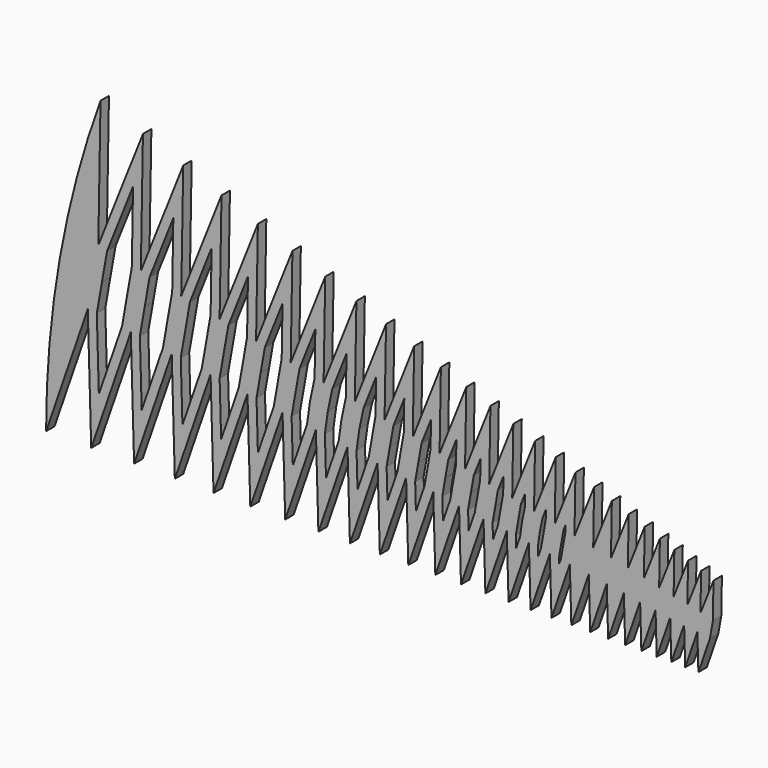
from build123d import *

# Parameters (mm, degrees)
F1_DEPTH = 2.9718


with BuildPart() as f1:
    # F0 (on Front) → F1 (new body)
    with BuildSketch(Plane.XZ):
        Polygon((88.5595228528, 0), (91.8131430541, 9.4448122858), (92.6356837919, 14.1096726181), (92.8085969496, 24.0976966753), (89.1419579691, 14.8522869664), (89.3239718193, 25.3659965003), (85.4643518398, 15.6339862804), (85.6559453663, 26.7010489477), (81.5931874931, 16.4568276636), (81.7948648895, 28.1063673133), (77.5182776546, 17.322976488), (77.7305696508, 29.5856498035), (73.2288988771, 18.2347120926), (73.4523641363, 31.1427892669), (68.7137633219, 19.1944337817), (68.9489899105, 32.7818834388), (63.9609890533, 20.2046671386), (64.2085959887, 34.507245725), (58.9580687706, 21.2680706723), (59.2187076499, 36.3234165527), (53.691836894, 22.3874428129), (53.0392851223, 18.6866378139), (52.3867333506, 14.9858328148), (52.8139092801, 0), (57.7182204044, 14.2365411741), (58.1240375374, 0), (62.7831331054, 13.5247141154), (63.1686593818, 0), (67.5948001715, 12.8484784096), (67.961050134, 0), (72.1658838842, 12.2060544891), (72.5138213486, 0), (76.5084134113, 11.5957517647), (76.8389540025, 0), (80.633816462, 11.0159641764), (80.9478300236, 0), (84.5529493602, 10.4651659676), (84.8512622437, 0), (88.2761256135, 9.9419076692), align=None)
        Polygon((47.2243005882, 0), (52.3867333506, 14.9858328148), (53.0392851223, 18.6866378139), (53.691836894, 22.3874428129), (53.966193609, 38.2351753186), (48.1484349186, 23.5657292767), (47.4615383168, 19.6701450672), (46.7746417151, 15.7745608577), align=None)
        Polygon((50.6049171986, 22.8698555445), (51.18513568, 24.3328732044), (51.1556807993, 22.6314638886), (50.5378734296, 19.1277041851), (49.92006606, 15.6239444817), (49.365828336, 14.0150685402), (49.3209828204, 15.5883018474), (49.9629500095, 19.2290786959), align=None, mode=Mode.SUBTRACT)
        Polygon((41.3405019652, 0), (46.7746417151, 15.7745608577), (47.4615383168, 19.6701450672), (48.1484349186, 23.5657292767), (48.4372314608, 40.247552967), (42.3132749445, 24.8060308176), (41.4470292604, 20.7306652896), (40.8671768356, 16.6048009028), align=None)
        Polygon((44.7532722233, 24.0685902468), (45.6561735318, 26.3452508527), (45.6122788239, 23.8097503524), (44.9601266242, 20.1112114385), (44.3079744245, 16.4126725246), (43.482029713, 14.0150685402), (43.4122438029, 16.4632401465), (43.9499656742, 20.2893300688), align=None, mode=Mode.SUBTRACT)
        Polygon((35.1470297304, 0), (40.8671768356, 16.6048009028), (41.4470292604, 20.7306652896), (42.3132749445, 24.8060308176), (42.6172713047, 42.3658452284), (36.1710012876, 26.111611387), (35.4098970198, 21.7951745897), (34.6487927519, 17.4787377925), align=None)
        Polygon((38.6274835677, 25.4157376547), (39.8362133757, 28.4635431141), (39.7778921048, 25.0947176066), (38.9440928465, 21.1720005104), (38.3859595933, 17.2006760597), (37.2885574782, 14.0150685402), (37.1951338571, 17.2924787822), (37.9113087124, 21.3541082184), align=None, mode=Mode.SUBTRACT)
        Polygon((28.6275852728, 0), (34.6487927519, 17.4787377925), (35.4098970198, 21.7951745897), (36.1710012876, 26.111611387), (36.4909974563, 44.5956265562), (29.7054500698, 27.4859067231), (28.9042876826, 22.9422890418), (28.1031252954, 18.3986713605), align=None)
        Polygon((32.1619323499, 26.7900329909), (33.7099395272, 30.6933244419), (33.6348451929, 26.3556324626), (32.9084853271, 22.236240961), (32.1821254613, 18.1168494594), (30.7691130206, 14.0150685402), (30.6494664006, 18.2124123502), (31.4056993752, 22.5012226705), align=None, mode=Mode.SUBTRACT)
        Polygon((21.7650121595, 0), (28.1031252954, 18.3986713605), (28.9042876826, 22.9422890418), (29.7054500698, 27.4859067231), (30.0422881421, 46.942764796), (22.8996066827, 28.9325333928), (22.056277854, 24.1497779387), (21.2129490253, 19.3670224847), align=None)
        Polygon((25.3560889627, 28.2366596605), (27.261230213, 33.0404626817), (27.1692939751, 27.7299277988), (26.4028759899, 23.3833554131), (25.6364580047, 19.0367830274), (23.9065399073, 14.0150685402), (23.7592901306, 19.1807634744), (24.5576895467, 23.7087115675), align=None, mode=Mode.SUBTRACT)
        Polygon((14.5412509876, 0), (21.2129490253, 19.3670224847), (22.056277854, 24.1497779387), (22.8996066827, 28.9325333928), (23.2541730745, 49.4134366273), (15.735561012, 30.4552983082), (14.8478464555, 25.4208188829), (13.960131899, 20.3863394576), align=None)
        Polygon((18.192043292, 29.7594245759), (20.4731151455, 35.5111345131), (20.363450588, 29.1765544684), (19.5548661614, 24.59084431), (18.7462817347, 20.0051341516), (16.6827787354, 14.0150685402), (16.5064730043, 20.2000804473), (17.3492581481, 24.9797525116), align=None, mode=Mode.SUBTRACT)
        Polygon((6.9372918592, 0), (13.960131899, 20.3863394576), (14.8478464555, 25.4208188829), (15.735561012, 30.4552983082), (16.1087887929, 52.0141438183), (8.194460306, 32.0582087455), (7.2600239307, 26.7587567188), (6.3255875555, 21.4593046922), align=None)
        Polygon((10.650942586, 31.3623350132), (13.3277308638, 38.111841704), (13.1994049173, 30.6993193838), (12.3464347628, 25.8618852542), (11.4934646084, 21.0244511245), (9.078819607, 14.0150685402), (8.8719286607, 21.2730456819), (9.7614356234, 26.3176903476), align=None, mode=Mode.SUBTRACT)
        Polygon((-1.0668756443, 0), (6.3255875555, 21.4593046922), (7.2600239307, 26.7587567188), (8.194460306, 32.0582087455), (8.5873316543, 54.751730335), (0.2564595629, 33.7454828899), (-0.7271576743, 28.1671123356), (-1.7107749114, 22.5887417813), align=None)
        Polygon((2.7129418429, 33.0496091577), (5.8062737253, 40.8494282208), (5.6583042113, 32.3022298211), (4.7586122381, 27.1998230901), (3.8589202649, 22.0974163591), (1.0746521035, 14.0150685402), (0.8355661939, 22.402482771), (1.7742540184, 27.7260459643), align=None, mode=Mode.SUBTRACT)
        Polygon((-9.4923151216, 0), (-1.7107749114, 22.5887417813), (-0.7271576743, 28.1671123356), (0.2564595629, 33.7454828899), (0.6700083505, 57.6334003526), (-8.0993306931, 35.5215609368), (-9.3397709346, 29.6857484278), (-10.1701038239, 23.7776229276), align=None)
        Polygon((-6.8368345207, 29.244413207), (-5.6593334143, 34.784120366), (-2.1110495785, 43.7310982384), (-2.2796965318, 33.9895039656), (-3.2285693669, 28.6081787069), (-4.177442202, 23.2268534482), (-7.3507873738, 14.0150685402), (-7.6250368565, 23.6360621713), align=None, mode=Mode.SUBTRACT)
        Polygon((-18.361198782, 0), (-10.1701038239, 23.7776229276), (-9.3397709346, 29.6857484278), (-8.0993306931, 35.5215609368), (-7.6640161798, 60.6667372133), (-16.8948993836, 37.3911167756), (-18.2006259535, 31.2481562398), (-19.0746605739, 25.0290767659), align=None)
        Polygon((-14.4549021048, 36.6536762048), (-10.4450741088, 46.7644350991), (-10.6347135328, 35.8102477258), (-11.8427073484, 30.1270836486), (-12.6513210661, 24.3734980845), (-16.2196710342, 14.0150685402), (-16.5295936065, 24.8875160096), (-15.6976895396, 30.806821019), align=None, mode=Mode.SUBTRACT)
        Polygon((-27.696865793, 0), (-19.0746605739, 25.0290767659), (-18.2006259535, 31.2481562398), (-16.8948993836, 37.3911167756), (-16.4366735801, 63.8597233824), (-26.1533927419, 39.3590702901), (-27.3006354737, 32.8527334429), (-28.4478782054, 26.3463965957), align=None)
        Polygon((-23.6969104619, 38.6631965578), (-19.2177315091, 49.9574212682), (-19.4302822233, 37.6798035645), (-20.7035623674, 31.6894914606), (-21.5558778161, 25.6249519228), (-25.5553380452, 14.0150685402), (-25.9015371001, 26.1601375854), (-24.799223781, 32.4116670716), align=None, mode=Mode.SUBTRACT)
        Polygon((-37.5238836992, 0), (-28.4478782054, 26.3463965957), (-27.3006354737, 32.8527334429), (-26.1533927419, 39.3590702901), (-25.6710497909, 67.2207614552), (-35.8991752245, 41.4306003053), (-37.1067991526, 34.5818246767), (-38.3144230807, 27.7330490481), align=None)
        Polygon((-33.4426929444, 40.7347265731), (-28.4521077199, 53.318459341), (-28.6895488366, 39.6030913657), (-29.8020471663, 33.2937998142), (-30.914545496, 26.9845082626), (-35.3823559514, 14.0150685402), (-35.7680819755, 27.5467900379), (-34.6053874599, 34.1407583055), align=None, mode=Mode.SUBTRACT)
        Polygon((-47.8681130742, 0), (-38.3144230807, 27.7330490481), (-37.1067991526, 34.5818246767), (-35.8991752245, 41.4306003053), (-35.3914458023, 70.7586962686), (-46.1578936271, 43.6111582161), (-47.4290767094, 36.4019207124), (-48.7002597916, 29.1926832086), align=None)
        Polygon((-43.7014113471, 42.9152844839), (-38.1725037313, 56.8563941544), (-38.4353313192, 41.674621381), (-39.6082108453, 35.022891048), (-40.7810903714, 28.371160715), (-45.7265853264, 14.0150685402), (-46.1539186863, 29.0064241983), (-44.9276650167, 35.9608543411), align=None, mode=Mode.SUBTRACT)
        Polygon((-58.7567755742, 0), (-48.7002597916, 29.1926832086), (-47.4290767094, 36.4019207124), (-46.1578936271, 43.6111582161), (-45.6234416038, 74.4828381775), (-56.9565445773, 45.9064823328), (-58.2946320323, 38.3178112762), (-59.6327194873, 30.7291402195), align=None)
        Polygon((-54.5000622972, 45.2106086005), (-48.4044995328, 60.5805360633), (-48.6940497218, 43.8551792918), (-49.930488402, 36.8429870836), (-51.1669270822, 29.8307948755), (-56.6152478264, 14.0150685402), (-57.086378382, 30.5428812093), (-55.7932203396, 37.8767449049), align=None, mode=Mode.SUBTRACT)
        Polygon((-70.2185255742, 0), (-59.6327194873, 30.7291402195), (-58.2946320323, 38.3178112762), (-56.9565445773, 45.9064823328), (-56.3939635001, 78.4029875553), (-68.3235455774, 48.3226129819), (-69.7320586879, 40.3345381854), (-71.1405717985, 32.346463389), align=None)
        Polygon((-65.8670632974, 47.6267392496), (-59.1750214291, 64.500685441), (-59.4927006719, 46.1505034084), (-60.7960437249, 38.7588776474), (-62.0993867779, 31.3672518864), (-68.0769978264, 14.0150685402), (-68.5942306932, 32.1602043787), (-67.2306469953, 39.8934718142), align=None, mode=Mode.SUBTRACT)
        Polygon((-82.2835255742, 0), (-71.1405717985, 32.346463389), (-69.7320586879, 40.3345381854), (-68.3235455774, 48.3226129819), (-67.7313549698, 82.5294605845), (-80.2888097881, 50.865908402), (-81.7714551676, 42.4574086162), (-83.2541005471, 34.0489088305), align=None)
        Polygon((-70.5124128989, 68.6271584702), (-70.8597016721, 48.5666340575), (-72.2334703806, 40.7756045567), (-73.6072390891, 32.9845750559), (-80.1419978264, 14.0150685402), (-80.7077594418, 33.8626498202), (-79.270043475, 42.016342245), (-77.8323275081, 50.1700346697), align=None, mode=Mode.SUBTRACT)
        with BuildLine():
            Line((-94.9835255742, 0), (-83.2541005471, 34.0489088305))
            Line((-83.2541005471, 34.0489088305), (-81.7714551676, 42.4574086162))
            Line((-81.7714551676, 42.4574086162), (-80.2888097881, 50.865908402))
            Line((-80.2888097881, 50.865908402), (-79.6654512538, 86.8731164047))
            ThreePointArc((-79.6654512538, 86.8731164047), (-91.1246948393, 44.1066371274), (-94.9835255742, 0))
        make_face()
    extrude(amount=F1_DEPTH)


solid = f1.part
